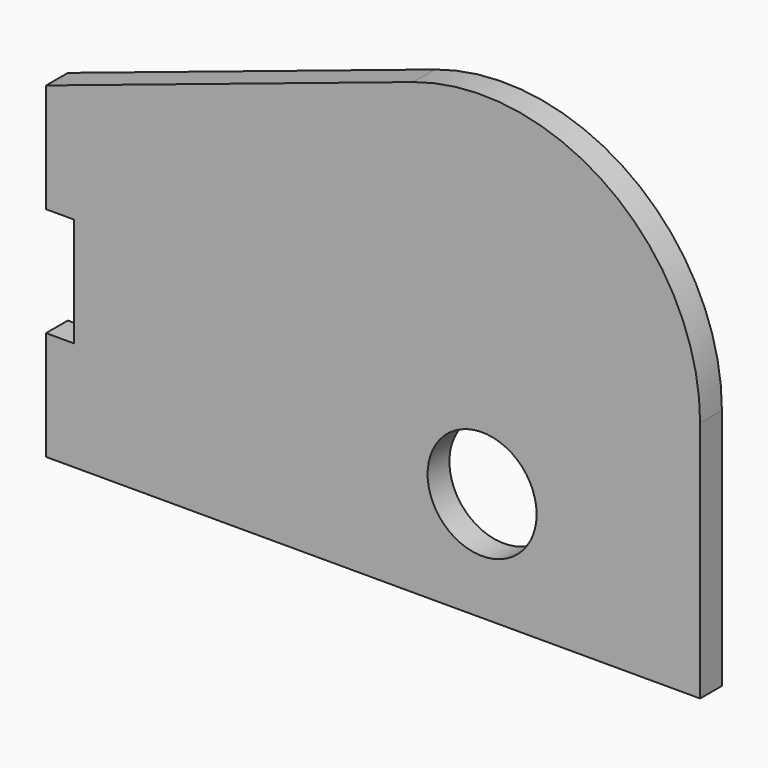
from build123d import *

# Parameters (mm, degrees)
F0_R     = 6.35
F1_DEPTH = 3.175
F2_W     = 3.2258
F2_H     = 12.7
F3_DEPTH = 3.175


with BuildPart() as f1:
    # F0 (on Front) → F1 (new body)
    with BuildSketch(Plane.XZ):
        with BuildLine():
            Line((0, 38.1), (0, 0))
            Line((0, 0), (76.2, 0))
            Line((76.2, 0), (76.2, 28.259382))
            ThreePointArc((76.2, 28.259382), (65.651641, 48.864934), (42.767815, 52.355938))
            Line((42.767815, 52.355938), (0, 38.1))
        make_face()
        with Locations((50.8, 12.7)):
            Circle(F0_R, mode=Mode.SUBTRACT)
    extrude(amount=F1_DEPTH)

    # F2 (on face) → F3 (cut)
    with BuildSketch(Plane.XZ.offset(3.175)):
        with Locations((1.6129, 19.05)):
            Rectangle(F2_W, F2_H)
    extrude(amount=-F3_DEPTH, mode=Mode.SUBTRACT)


solid = f1.part
